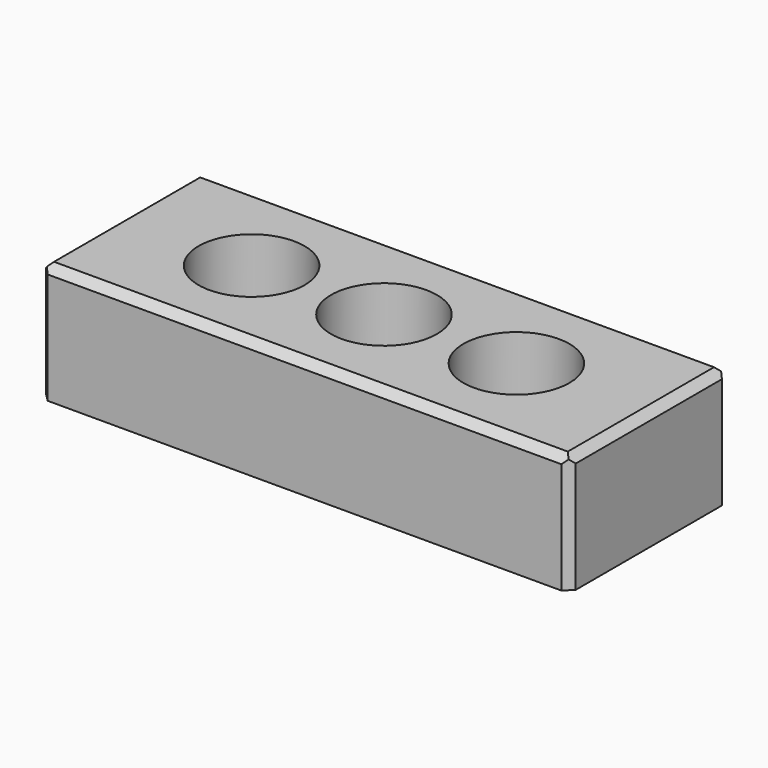
from build123d import *

# Parameters (mm, degrees)
SKETCH001_W     = 200
SKETCH001_H     = 75
SKETCH001_R     = 20
PAD_DEPTH       = 45
CHAMFER_SIZE    = 3
CHAMFER001_SIZE = 3


with BuildPart() as part:
    # Sketch001 → Pad (new body)
    with BuildSketch(Plane.XY):
        Rectangle(SKETCH001_W, SKETCH001_H)
        Circle(SKETCH001_R, mode=Mode.SUBTRACT)
        with Locations((-50, 0)):
            Circle(SKETCH001_R, mode=Mode.SUBTRACT)
        with Locations((50, 0)):
            Circle(SKETCH001_R, mode=Mode.SUBTRACT)
    extrude(amount=PAD_DEPTH)

    # Chamfer
    chamfer_edges = [part.edges().sort_by_distance(p)[0] for p in [
        (100, 0, 45),
        (0, 37.5, 45),
        (-100, 0, 45),
        (0, -37.5, 45),
    ]]
    chamfer(chamfer_edges, length=CHAMFER_SIZE)

    # Chamfer001
    chamfer001_edges = [part.edges().sort_by_distance(p)[0] for p in [
        (100, 37.5, 21),
        (100, -37.5, 21),
        (-100, -37.5, 21),
        (-100, 37.5, 21),
    ]]
    chamfer(chamfer001_edges, length=CHAMFER001_SIZE)


solid = part.part
